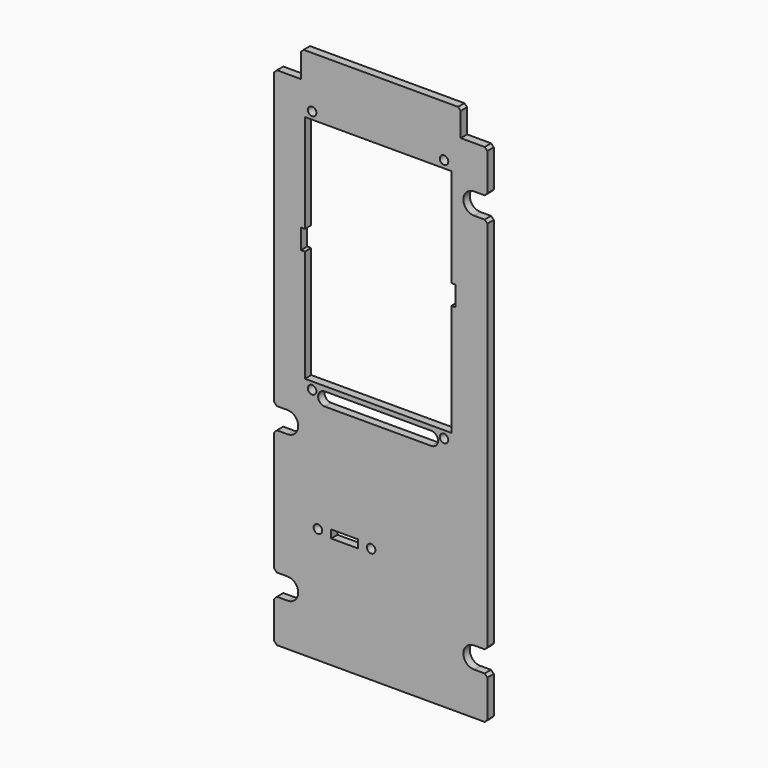
from build123d import *

# Parameters (mm, degrees)
PAD087_DEPTH    = 3
POCKET016_DEPTH = 3.001
CHAMFER060_SIZE = 1
SKETCH179_R     = 1.6
POCKET025_DEPTH = 3.001
SKETCH180_R     = 1.6
SKETCH180_W     = 10
SKETCH180_H     = 3
POCKET026_DEPTH = 3.001
POCKET027_DEPTH = 3.001


with BuildPart() as part:
    # Sketch160 → Pad087 (new body)
    with BuildSketch(Plane(origin=(0, 0, 0), x_dir=(-1, 0, 0), z_dir=(0, 1, 0))):
        Polygon((-40, 310), (-30, 310), (-30, 320), (30, 320), (30, 310), (40, 310), (40, 120), (-40, 120), align=None)
    extrude(amount=PAD087_DEPTH)

    # Sketch161 → Pocket016 (cut, through all)
    with BuildSketch(Plane(origin=(0, 0, 0), x_dir=(-1, 0, 0), z_dir=(0, 1, 0))):
        with BuildLine():
            ThreePointArc((-40, 294), (-44, 290), (-40, 286))
            Line((-40, 286), (-35, 286))
            ThreePointArc((-35, 286), (-31, 290), (-35, 294))
            Line((-35, 294), (-40, 294))
        make_face()
        with BuildLine():
            ThreePointArc((-40, 144), (-44, 140), (-40, 136))
            Line((-40, 136), (-35, 136))
            ThreePointArc((-35, 136), (-31, 140), (-35, 144))
            Line((-35, 144), (-40, 144))
        make_face()
        with BuildLine():
            ThreePointArc((40, 136), (44, 140), (40, 144))
            Line((40, 144), (35, 144))
            ThreePointArc((35, 144), (31, 140), (35, 136))
            Line((35, 136), (40, 136))
        make_face()
        with BuildLine():
            ThreePointArc((40, 191), (44, 195), (40, 199))
            Line((40, 199), (35, 199))
            ThreePointArc((35, 199), (31, 195), (35, 191))
            Line((35, 191), (40, 191))
        make_face()
    extrude(amount=POCKET016_DEPTH, mode=Mode.SUBTRACT)

    # Chamfer060
    chamfer060_edges = [part.edges().sort_by_distance(p)[0] for p in [
        (40, 1.5, 310),
        (30, 1.5, 320),
        (40, 1.5, 294),
        (40, 1.5, 286),
        (-40, 1.5, 310),
        (-30, 1.5, 320),
        (40, 1.5, 144),
        (40, 1.5, 136),
        (40, 1.5, 120),
        (-40, 1.5, 120),
        (-40, 1.5, 136),
        (-40, 1.5, 144),
        (-40, 1.5, 191),
        (-40, 1.5, 199),
    ]]
    chamfer(chamfer060_edges, length=CHAMFER060_SIZE)

    # Sketch179 (on Face5 of Chamfer060) → Pocket025 (cut, through all)
    with BuildSketch(Plane(origin=(0, 3, 0), x_dir=(1, 0, 0), z_dir=(0, 1, 0))):
        with Locations((-25.769897, -208.69686)):
            Circle(SKETCH179_R)
        with Locations((23.730103, -208.69686)):
            Circle(SKETCH179_R)
        with Locations((23.730103, -300.69686)):
            Circle(SKETCH179_R)
        with Locations((-25.769897, -300.69686)):
            Circle(SKETCH179_R)
        Polygon((26.480103, -297.94686), (-28.519897, -297.94686), (-28.519897, -260.94686), (-30.019897, -260.94686), (-30.019897, -253.44686), (-28.519897, -253.44686), (-28.519897, -211.44686), (26.480103, -211.44686), (26.480103, -253.44686), (27.980103, -253.44686), (27.980103, -260.94686), (26.480103, -260.94686), align=None)
    extrude(amount=-POCKET025_DEPTH, mode=Mode.SUBTRACT)

    # Sketch180 (on Face5 of Pocket025) → Pocket026 (cut, through all)
    with BuildSketch(Plane(origin=(0, 3, 0), x_dir=(-1, 0, 0), z_dir=(0, 1, 0))):
        with Locations((23.62, 163.37)):
            Circle(SKETCH180_R)
        with Locations((3.62, 163.37)):
            Circle(SKETCH180_R)
        with Locations((13.62, 163.37)):
            Rectangle(SKETCH180_W, SKETCH180_H)
    extrude(amount=-POCKET026_DEPTH, mode=Mode.SUBTRACT)

    # Sketch182 → Pocket027 (cut, through all)
    with BuildSketch(Plane.XZ):
        with BuildLine():
            ThreePointArc((-21.019897, 209.69686), (-23.519897, 207.19686), (-21.019897, 204.69686))
            Line((-21.019897, 204.69686), (18.980103, 204.69686))
            ThreePointArc((18.980103, 204.69686), (21.480103, 207.19686), (18.980103, 209.69686))
            Line((18.980103, 209.69686), (-21.019897, 209.69686))
        make_face()
    extrude(amount=-POCKET027_DEPTH, mode=Mode.SUBTRACT)


with BuildPart() as part_1:
    # Body076 placement: moved
    add(part.part.moved(Location((0, 75, 0))))


solid = part_1.part
